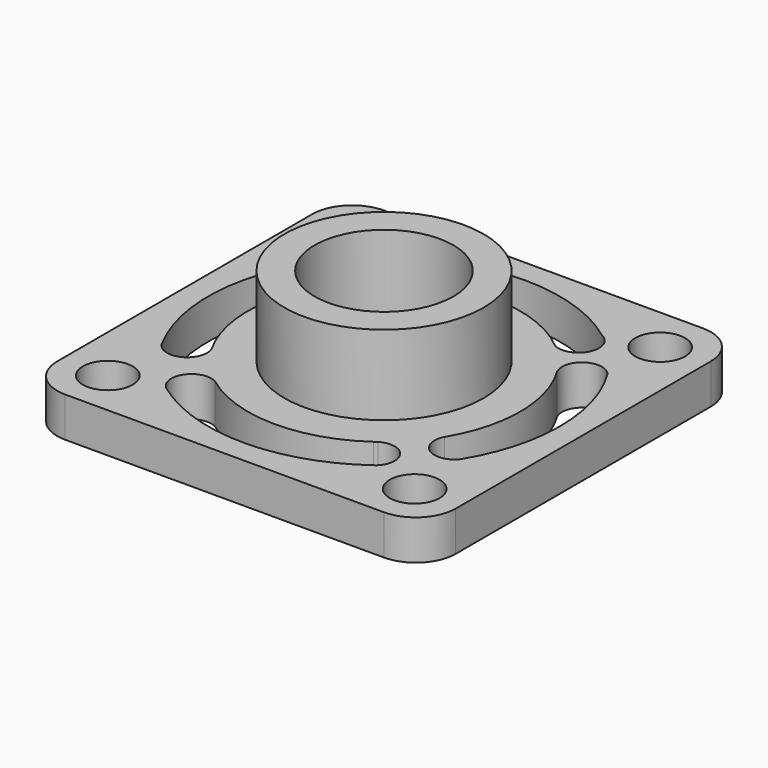
from build123d import *

# Parameters (mm, degrees)
F0_R     = 12.5
F1_DEPTH = 20
F2_R     = 50
F3_DEPTH = 40
F4_R     = 34.837403
F5_DEPTH = 100
F7_DEPTH = 25


with BuildPart() as f1:
    # F0 (on Top) → F1 (new body)
    with BuildSketch(Plane.XY):
        with BuildLine():
            ThreePointArc((100, 80), (94.142136, 94.142136), (80, 100))
            Line((80, 100), (-80, 100))
            ThreePointArc((-80, 100), (-94.142136, 94.142136), (-100, 80))
            Line((-100, 80), (-100, -80))
            ThreePointArc((-100, -80), (-94.142136, -94.142136), (-80, -100))
            Line((-80, -100), (80, -100))
            ThreePointArc((80, -100), (94.142136, -94.142136), (100, -80))
            Line((100, -80), (100, 80))
        make_face()
        with Locations((-77, -77)):
            Circle(F0_R, mode=Mode.SUBTRACT)
        with Locations((77, -77)):
            Circle(F0_R, mode=Mode.SUBTRACT)
        with Locations((-77, 77)):
            Circle(F0_R, mode=Mode.SUBTRACT)
        with Locations((77, 77)):
            Circle(F0_R, mode=Mode.SUBTRACT)
    extrude(amount=-F1_DEPTH)

    # F2 (on face) → F3 (join)
    with BuildSketch(Plane.XY):
        Circle(F2_R)
    extrude(amount=F3_DEPTH)

    # F4 (on face) → F5 (cut)
    with BuildSketch(Plane.XY.offset(40)):
        Circle(F4_R)
    extrude(amount=-F5_DEPTH, mode=Mode.SUBTRACT)

    # F6 (on Top) → F7 (cut)
    with BuildSketch(Plane.XY):
        with BuildLine():
            ThreePointArc((-59.309852, -34.015045), (-68.347947, 1.800006), (-57.437243, 37.089687))
            ThreePointArc((-57.437243, 37.089687), (-62.013533, 48.246062), (-74.069896, 48.019696))
            ThreePointArc((-74.069896, 48.019696), (-88.19022, 3.83743), (-77.961014, -41.40436))
            ThreePointArc((-77.961014, -41.40436), (-77.365723, -42.506301), (-76.754857, -43.599686))
            ThreePointArc((-76.754857, -43.599686), (-63.805315, -46.501), (-59.309852, -34.015045))
        make_face()
        with BuildLine():
            ThreePointArc((-77.961014, -41.40436), (-77.426731, -42.53982), (-76.754857, -43.599686))
            ThreePointArc((-76.754857, -43.599686), (-77.365723, -42.506301), (-77.961014, -41.40436))
        make_face()
        with BuildLine():
            ThreePointArc((-54.052199, 69.789687), (-53.014186, 70.58142), (-51.964577, 71.357714))
            ThreePointArc((-51.964577, 71.357714), (-53.059588, 70.641867), (-54.052199, 69.789687))
        make_face()
        with BuildLine():
            ThreePointArc((52.94881, 70.630476), (0.61188, 88.271549), (-51.964577, 71.357714))
            ThreePointArc((-51.964577, 71.357714), (-53.014186, 70.58142), (-54.052199, 69.789687))
            ThreePointArc((-54.052199, 69.789687), (-55.057173, 56.587711), (-42.098027, 53.874279))
            ThreePointArc((-42.098027, 53.874279), (1.351238, 68.358291), (44.194175, 52.168541))
            ThreePointArc((44.194175, 52.168541), (56.583811, 55.06118), (56.54711, 67.783959))
            ThreePointArc((56.54711, 67.783959), (54.766457, 69.230599), (52.94881, 70.630476))
        make_face()
        with BuildLine():
            ThreePointArc((56.54711, 67.783959), (54.909822, 69.411828), (52.94881, 70.630476))
            ThreePointArc((52.94881, 70.630476), (54.766457, 69.230599), (56.54711, 67.783959))
        make_face()
        with BuildLine():
            ThreePointArc((39.419032, -55.864315), (-1.174312, -68.361559), (-41.314479, -54.477479))
            ThreePointArc((-41.314479, -54.477479), (-54.310003, -57.775947), (-52.39069, -71.045453))
            ThreePointArc((-52.39069, -71.045453), (-51.854665, -71.437626), (-51.315704, -71.825756))
            ThreePointArc((-51.315704, -71.825756), (0.860325, -88.269477), (52.705932, -70.811902))
            ThreePointArc((52.705932, -70.811902), (54.044321, -57.453202), (40.883132, -54.801928))
            ThreePointArc((40.883132, -54.801928), (40.154596, -55.337964), (39.419032, -55.864315))
        make_face()
        with BuildLine():
            ThreePointArc((-51.315704, -71.825756), (-51.854665, -71.437626), (-52.39069, -71.045453))
            ThreePointArc((-52.39069, -71.045453), (-51.866142, -71.453438), (-51.315704, -71.825756))
        make_face()
        with BuildLine():
            ThreePointArc((40.883132, -54.801928), (40.12701, -55.299948), (39.419032, -55.864315))
            ThreePointArc((39.419032, -55.864315), (40.154596, -55.337964), (40.883132, -54.801928))
        make_face()
        with BuildLine():
            ThreePointArc((75.178414, -46.264963), (88.273532, -0.155791), (75.341248, 45.999316))
            ThreePointArc((75.341248, 45.999316), (62.161005, 48.55397), (58.316969, 35.690517))
            ThreePointArc((58.316969, 35.690517), (68.371159, 0.257823), (58.58448, -35.249689))
            ThreePointArc((58.58448, -35.249689), (61.853637, -48.331459), (75.178414, -46.264963))
        make_face()
    extrude(amount=-F7_DEPTH, mode=Mode.SUBTRACT)


solid = f1.part
